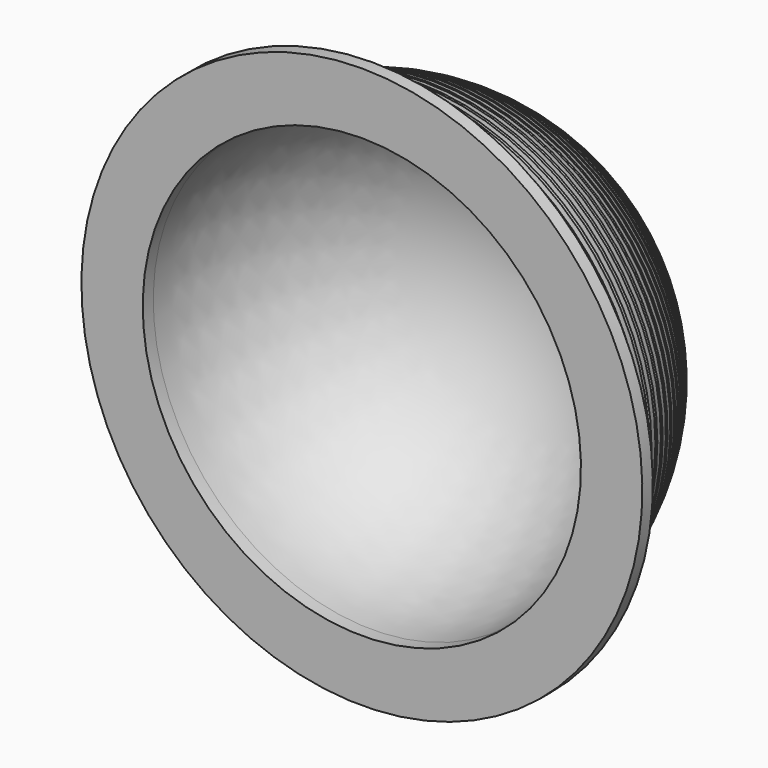
from build123d import *


with BuildPart() as f1:
    # F0 (on Right) → F1 (revolve)
    with BuildSketch(Plane.YZ):
        with BuildLine():
            Line((0, 56), (0, 50))
            ThreePointArc((0, 50), (35.355339, 35.355339), (50, 0))
            Line((50, 0), (56, 0))
            ThreePointArc((56, 0), (55.995988, 0.670303), (55.983953, 1.34051))
            Line((55.983953, 1.34051), (51.687458, 1.206919))
            Line((51.687458, 1.206919), (51.675027, 1.606726))
            Line((51.675027, 1.606726), (51.662596, 2.006533))
            Line((51.662596, 2.006533), (55.959091, 2.140123))
            ThreePointArc((55.959091, 2.140123), (55.923803, 2.920322), (55.877637, 3.699953))
            Line((55.877637, 3.699953), (51.590597, 3.385314))
            Line((51.590597, 3.385314), (51.561318, 3.784241))
            Line((51.561318, 3.784241), (51.53204, 4.183168))
            Line((51.53204, 4.183168), (55.81908, 4.497807))
            ThreePointArc((55.81908, 4.497807), (55.750925, 5.275824), (55.671927, 6.052815))
            Line((55.671927, 6.052815), (51.401966, 5.557687))
            Line((51.401966, 5.557687), (51.355892, 5.955025))
            Line((51.355892, 5.955025), (51.309819, 6.352362))
            Line((51.309819, 6.352362), (55.579779, 6.84749))
            ThreePointArc((55.579779, 6.84749), (55.478879, 7.621941), (55.367188, 8.39491))
            Line((55.367188, 8.39491), (51.121902, 7.720174))
            Line((51.121902, 7.720174), (51.059116, 8.115215))
            Line((51.059116, 8.115215), (50.996329, 8.510257))
            Line((50.996329, 8.510257), (55.241614, 9.184993))
            ThreePointArc((55.241614, 9.184993), (55.108148, 9.9545), (54.963963, 10.722072))
            Line((54.963963, 10.722072), (50.750904, 9.868928))
            Line((50.750904, 9.868928), (50.671515, 10.260971))
            Line((50.671515, 10.260971), (50.592127, 10.653014))
            Line((50.592127, 10.653014), (54.805185, 11.506157))
            ThreePointArc((54.805185, 11.506157), (54.63939, 12.269353), (54.462968, 13.030162))
            Line((54.462968, 13.030162), (50.28963, 12.000128))
            Line((50.28963, 12.000128), (50.193781, 12.388475))
            Line((50.193781, 12.388475), (50.097933, 12.776821))
            Line((50.097933, 12.776821), (54.27127, 13.806855))
            ThreePointArc((54.27127, 13.806855), (54.073441, 14.562381), (53.865095, 15.315074))
            Line((53.865095, 15.315074), (49.738902, 14.109982))
            Line((49.738902, 14.109982), (49.626763, 14.493942))
            Line((49.626763, 14.493942), (49.514625, 14.877901))
            Line((49.514625, 14.877901), (53.640818, 16.082993))
            ThreePointArc((53.640818, 16.082993), (53.411307, 16.829505), (53.171408, 17.572744))
            Line((53.171408, 17.572744), (49.099699, 16.194738))
            Line((49.099699, 16.194738), (48.97147, 16.573627))
            Line((48.97147, 16.573627), (48.843241, 16.952517))
            Line((48.843241, 16.952517), (52.91495, 18.330523))
            ThreePointArc((52.91495, 18.330523), (52.654166, 19.066693), (52.383141, 19.799155))
            Line((52.383141, 19.799155), (48.373158, 18.250686))
            Line((48.373158, 18.250686), (48.229067, 18.623832))
            Line((48.229067, 18.623832), (48.084975, 18.996977))
            Line((48.084975, 18.996977), (52.094958, 20.545447))
            ThreePointArc((52.094958, 20.545447), (51.803364, 21.269966), (51.501695, 21.990349))
            Line((51.501695, 21.990349), (47.560572, 20.27417))
            Line((47.560572, 20.27417), (47.400875, 20.640908))
            Line((47.400875, 20.640908), (47.241177, 21.007646))
            Line((47.241177, 21.007646), (51.1823, 22.723824))
            ThreePointArc((51.1823, 22.723824), (50.860415, 23.435404), (50.528638, 24.142426))
            Line((50.528638, 24.142426), (46.663386, 22.261591))
            Line((46.663386, 22.261591), (46.488366, 22.621269))
            Line((46.488366, 22.621269), (46.313347, 22.980947))
            Line((46.313347, 22.980947), (50.178599, 24.861781))
            ThreePointArc((50.178599, 24.861781), (49.826996, 25.559156), (49.465702, 26.251559))
            Line((49.465702, 26.251559), (45.683195, 24.209414))
            Line((45.683195, 24.209414), (45.493165, 24.561392))
            Line((45.493165, 24.561392), (45.303135, 24.91337))
            Line((45.303135, 24.91337), (49.085642, 26.955515))
            ThreePointArc((49.085642, 26.955515), (48.704946, 27.637443), (48.314777, 28.313995))
            Line((48.314777, 28.313995), (44.621744, 26.114173))
            Line((44.621744, 26.114173), (44.417041, 26.457825))
            Line((44.417041, 26.457825), (44.212338, 26.801477))
            Line((44.212338, 26.801477), (47.905371, 29.0013))
            ThreePointArc((47.905371, 29.0013), (47.49626, 29.666569), (47.07791, 30.326068))
            Line((47.07791, 30.326068), (43.48092, 27.97248))
            Line((43.48092, 27.97248), (43.261908, 28.307195))
            Line((43.261908, 28.307195), (43.042897, 28.64191))
            Line((43.042897, 28.64191), (46.639888, 30.995498))
            ThreePointArc((46.639888, 30.995498), (46.203088, 31.642925), (45.757302, 32.284197))
            Line((45.757302, 32.284197), (42.262752, 29.78103))
            Line((42.262752, 29.78103), (42.029822, 30.106213))
            Line((42.029822, 30.106213), (41.796892, 30.431395))
            Line((41.796892, 30.431395), (45.291441, 32.934561))
            ThreePointArc((45.291441, 32.934561), (44.827731, 33.562994), (44.355301, 34.184899))
            Line((44.355301, 34.184899), (40.969409, 31.536606))
            Line((40.969409, 31.536606), (40.722974, 31.851678))
            Line((40.722974, 31.851678), (40.476539, 32.166749))
            Line((40.476539, 32.166749), (43.862431, 34.815041))
            ThreePointArc((43.862431, 34.815041), (43.372634, 35.423362), (42.874401, 36.024793))
            Line((42.874401, 36.024793), (39.603189, 33.236086))
            Line((39.603189, 33.236086), (39.343688, 33.540486))
            Line((39.343688, 33.540486), (39.084188, 33.844886))
            Line((39.084188, 33.844886), (42.355399, 36.633593))
            ThreePointArc((42.355399, 36.633593), (41.840387, 37.22072), (41.317237, 37.800607))
            Line((41.317237, 37.800607), (38.166524, 34.876445))
            Line((38.166524, 34.876445), (37.894419, 35.169632))
            Line((37.894419, 35.169632), (37.622313, 35.462819))
            Line((37.622313, 35.462819), (40.773026, 38.386981))
            ThreePointArc((40.773026, 38.386981), (40.233715, 38.95187), (39.686579, 39.509182))
            Line((39.686579, 39.509182), (36.661969, 36.454767))
            Line((36.661969, 36.454767), (36.377743, 36.736219))
            Line((36.377743, 36.736219), (36.093517, 37.017672))
            Line((36.093517, 37.017672), (39.118127, 40.072087))
            ThreePointArc((39.118127, 40.072087), (38.555476, 40.613732), (37.985326, 41.147478))
            Line((37.985326, 41.147478), (35.0922, 37.968243))
            Line((35.0922, 37.968243), (34.796359, 38.237461))
            Line((34.796359, 38.237461), (34.500518, 38.506678))
            Line((34.500518, 38.506678), (37.393644, 41.685913))
            ThreePointArc((37.393644, 41.685913), (36.808655, 42.203352), (36.216506, 42.712582))
            Line((36.216506, 42.712582), (33.46001, 39.414182))
            Line((33.46001, 39.414182), (33.15308, 39.670686))
            Line((33.15308, 39.670686), (32.84615, 39.927189))
            Line((32.84615, 39.927189), (35.602647, 43.225589))
            ThreePointArc((35.602647, 43.225589), (34.996359, 43.717901), (34.383265, 44.201709))
            Line((34.383265, 44.201709), (31.768301, 40.790012))
            Line((31.768301, 40.790012), (31.450828, 41.033345))
            Line((31.450828, 41.033345), (31.133355, 41.276678))
            Line((31.133355, 41.276678), (33.748319, 44.688376))
            ThreePointArc((33.748319, 44.688376), (33.121812, 45.154685), (32.488863, 45.612211))
            Line((32.488863, 45.612211), (30.020083, 42.093285))
            Line((30.020083, 42.093285), (29.692632, 42.323015))
            Line((29.692632, 42.323015), (29.365181, 42.552745))
            Line((29.365181, 42.552745), (31.833961, 46.071672))
            ThreePointArc((31.833961, 46.071672), (31.188348, 46.511148), (30.53667, 46.941579))
            Line((30.53667, 46.941579), (28.218466, 43.321683))
            Line((28.218466, 43.321683), (27.881619, 43.537401))
            Line((27.881619, 43.537401), (27.544773, 43.75312))
            Line((27.544773, 43.75312), (29.862977, 47.373016))
            ThreePointArc((29.862977, 47.373016), (29.199407, 47.784878), (28.530159, 48.187447))
            Line((28.530159, 48.187447), (26.366654, 44.47302))
            Line((26.366654, 44.47302), (26.021011, 44.674344))
            Line((26.021011, 44.674344), (25.675368, 44.875667))
            Line((25.675368, 44.875667), (27.838873, 48.590093))
            ThreePointArc((27.838873, 48.590093), (27.158527, 48.973609), (26.472898, 49.3476))
            Line((26.472898, 49.3476), (24.467942, 45.54525))
            Line((24.467942, 45.54525), (24.114117, 45.73182))
            Line((24.114117, 45.73182), (23.760293, 45.918389))
            Line((23.760293, 45.918389), (25.765249, 49.720739))
            ThreePointArc((25.765249, 49.720739), (25.069337, 50.075227), (24.368549, 50.419975))
            Line((24.368549, 50.419975), (22.525706, 46.536465))
            Line((22.525706, 46.536465), (22.164329, 46.707949))
            Line((22.164329, 46.707949), (21.802953, 46.879433))
            Line((21.802953, 46.879433), (23.645795, 50.762943))
            ThreePointArc((23.645795, 50.762943), (22.935554, 51.087771), (22.220852, 51.402663))
            Line((22.220852, 51.402663), (20.543402, 47.444901))
            Line((20.543402, 47.444901), (20.175116, 47.600995))
            Line((20.175116, 47.600995), (19.80683, 47.757088))
            Line((19.80683, 47.757088), (21.48428, 51.71485))
            ThreePointArc((21.48428, 51.71485), (20.760974, 52.009441), (20.03363, 52.293916))
            Line((20.03363, 52.293916), (18.524556, 48.268943))
            Line((18.524556, 48.268943), (18.150015, 48.409368))
            Line((18.150015, 48.409368), (17.775475, 48.549794))
            Line((17.775475, 48.549794), (19.284549, 52.574767))
            ThreePointArc((19.284549, 52.574767), (18.549464, 52.838597), (17.810772, 53.09215))
            Line((17.810772, 53.09215), (16.472758, 49.007124))
            Line((16.472758, 49.007124), (16.092629, 49.131632))
            Line((16.092629, 49.131632), (15.712501, 49.25614))
            Line((15.712501, 49.25614), (17.050515, 53.341166))
            ThreePointArc((17.050515, 53.341166), (16.304959, 53.573765), (15.556232, 53.795944))
            Line((15.556232, 53.795944), (14.391659, 49.658133))
            Line((14.391659, 49.658133), (14.006618, 49.766501))
            Line((14.006618, 49.766501), (13.621578, 49.87487))
            Line((13.621578, 49.87487), (14.786151, 54.012681))
            ThreePointArc((14.786151, 54.012681), (14.031451, 54.213636), (13.274022, 54.404047))
            Line((13.274022, 54.404047), (12.28496, 50.22081))
            Line((12.28496, 50.22081), (11.895693, 50.312846))
            Line((11.895693, 50.312846), (11.506425, 50.404883))
            Line((11.506425, 50.404883), (12.495486, 54.58812))
            ThreePointArc((12.495486, 54.58812), (11.732984, 54.757073), (10.968199, 54.915377))
            Line((10.968199, 54.915377), (10.156409, 50.694155))
            Line((10.156409, 50.694155), (9.763607, 50.769696))
            Line((9.763607, 50.769696), (9.370804, 50.845236))
            Line((9.370804, 50.845236), (10.182595, 55.066458))
            ThreePointArc((10.182595, 55.066458), (9.413646, 55.203109), (8.642867, 55.329024))
            Line((8.642867, 55.329024), (8.009792, 51.077326))
            Line((8.009792, 51.077326), (7.614154, 51.136236))
            Line((7.614154, 51.136236), (7.218515, 51.195147))
            Line((7.218515, 51.195147), (7.851591, 55.446844))
            ThreePointArc((7.851591, 55.446844), (7.077564, 55.55095), (6.302161, 55.644252))
            Line((6.302161, 55.644252), (5.848927, 51.369641))
            Line((5.848927, 51.369641), (5.451157, 51.411817))
            Line((5.451157, 51.411817), (5.053386, 51.453992))
            Line((5.053386, 51.453992), (5.50662, 55.728603))
            ThreePointArc((5.50662, 55.728603), (4.728892, 55.799978), (3.950244, 55.860501))
            Line((3.950244, 55.860501), (3.677658, 51.570581))
            Line((3.677658, 51.570581), (3.278463, 51.595946))
            Line((3.278463, 51.595946), (2.879268, 51.621312))
            Line((2.879268, 51.621312), (3.151854, 55.911232))
            ThreePointArc((3.151854, 55.911232), (2.371808, 55.94975), (1.591301, 55.977386))
            Line((1.591301, 55.977386), (1.499847, 51.679788))
            Line((1.499847, 51.679788), (1.099938, 51.688298))
            Line((1.099938, 51.688298), (0.700028, 51.696808))
            Line((0.700028, 51.696808), (0.791482, 55.994406))
            ThreePointArc((0.791482, 55.994406), (0.395751, 55.998602), (0, 56))
        make_face()
        Polygon((-3, 50), (0, 50), (0, 56), (0, 64), (-3, 64), align=None)
    revolve(axis=Axis((0, -14.414419, 0), (0, -1, 0)))


solid = f1.part
